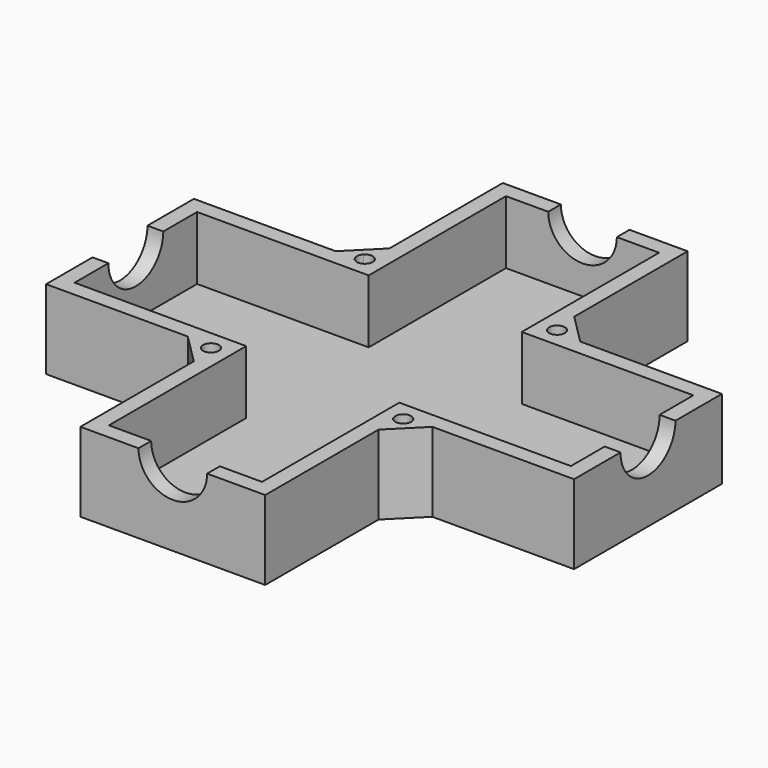
from build123d import *

# Parameters (mm, degrees)
F1_DEPTH  = 7.5
F2_T      = -1.5
F4_DEPTH  = 7.5
F6_DEPTH  = 3
F7_R      = 3.25
F8_DEPTH  = 50.001
F9_R      = 3.25
F10_DEPTH = 50.001


with BuildPart() as f1:
    # F0 (on Top) → F1 (new body)
    with BuildSketch(Plane.XY):
        Polygon((25, -8.75), (25, 8.75), (8.75, 8.75), (8.75, 25), (-8.75, 25), (-8.75, 8.75), (-25, 8.75), (-25, -8.75), (-8.75, -8.75), (-8.75, -25), (8.75, -25), (8.75, -8.75), align=None)
    extrude(amount=F1_DEPTH)

    # F2
    f2_openings = [f1.faces().sort_by_distance(p)[0] for p in [
        (0, 0, 7.5),
    ]]
    offset(amount=F2_T, openings=f2_openings, kind=Kind.INTERSECTION)

    # F3 (on face) → F4 (join, through all)
    with BuildSketch(Plane.XY.offset(7.5)):
        Polygon((-8.75, 11.5784271247), (-11.5784271247, 8.75), (-8.75, 8.75), align=None)
        Polygon((8.75, 11.5784271247), (8.75, 8.75), (11.5784271247, 8.75), align=None)
        Polygon((-8.75, -11.5784271247), (-8.75, -8.75), (-11.5784271247, -8.75), align=None)
        Polygon((11.5784271247, -8.75), (8.75, -8.75), (8.75, -11.5784271247), align=None)
    extrude(amount=-F4_DEPTH)

    # F5 (on face) → F6 (cut)
    with BuildSketch(Plane.XY.offset(7.5)):
        with BuildLine():
            ThreePointArc((-9.6338834765, 9.6338834765), (-9.3905659649, 8.4106437412), (-8.3535533906, 9.1035533906))
            ThreePointArc((-8.3535533906, 9.1035533906), (-8.8165408163, 9.79646304), (-9.6338834765, 9.6338834765))
        make_face()
        with BuildLine():
            ThreePointArc((9.6338834765, 9.6338834765), (8.4106437412, 8.8165408163), (9.8535533906, 9.1035533906))
            ThreePointArc((9.8535533906, 9.1035533906), (9.79646304, 9.3905659649), (9.6338834765, 9.6338834765))
        make_face()
        with BuildLine():
            ThreePointArc((9.6338834765, -9.6338834765), (9.79646304, -9.3905659649), (9.8535533906, -9.1035533906))
            ThreePointArc((9.8535533906, -9.1035533906), (8.4106437412, -8.8165408163), (9.6338834765, -9.6338834765))
        make_face()
        with BuildLine():
            ThreePointArc((-9.6338834765, -9.6338834765), (-8.8165408163, -9.79646304), (-8.3535533906, -9.1035533906))
            ThreePointArc((-8.3535533906, -9.1035533906), (-9.3905659649, -8.4106437412), (-9.6338834765, -9.6338834765))
        make_face()
    extrude(amount=-F6_DEPTH, mode=Mode.SUBTRACT)

    # F7 (on face) → F8 (cut, through all)
    with BuildSketch(Plane.XZ.offset(25)):
        with Locations((0, 7.5)):
            Circle(F7_R)
    extrude(amount=-F8_DEPTH, mode=Mode.SUBTRACT)

    # F9 (on face) → F10 (cut, through all)
    with BuildSketch(Plane(origin=(-25, 0, 0), x_dir=(0, -1, 0), z_dir=(-1, 0, 0))):
        with Locations((0, 7.5)):
            Circle(F9_R)
    extrude(amount=-F10_DEPTH, mode=Mode.SUBTRACT)


solid = f1.part
